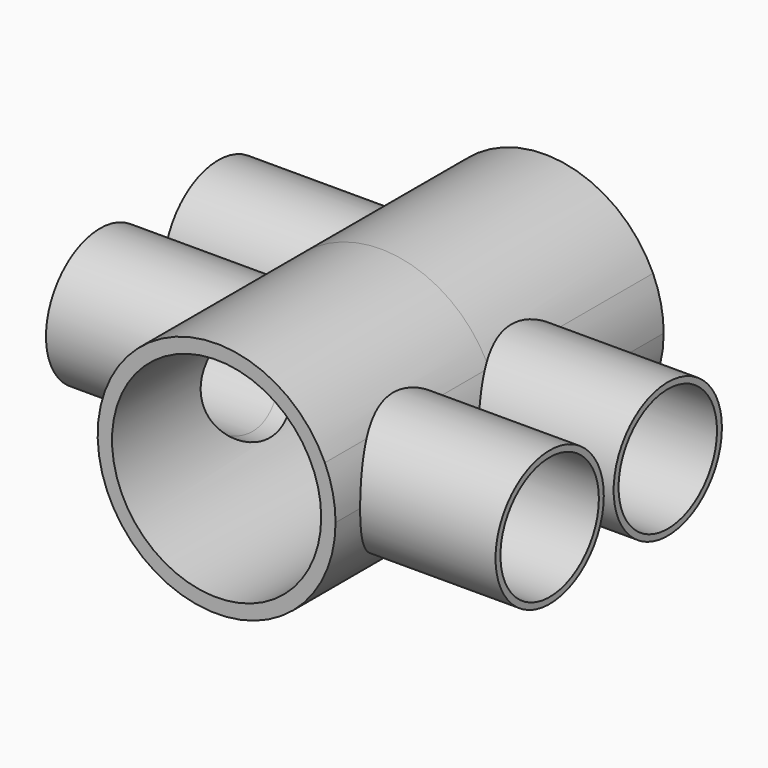
from build123d import *

# Parameters (mm, degrees)
F1_DEPTH = 50
F3_R     = 16.5
F3_R_2   = 15
F5_DEPTH = 50
F7_R     = 16.5
F7_R_2   = 15
F9_DEPTH = 50


with BuildPart() as f1:
    # F0 (on Front) → F1 (new body, symmetric)
    with BuildSketch(Plane.XZ):
        with BuildLine():
            ThreePointArc((-22.5, 12), (0, 25.5), (22.5, 12))
            Line((22.5, 12), (26.4007575649, 12))
            ThreePointArc((26.4007575649, 12), (0, 29), (-26.4007575649, 12))
            Line((-26.4007575649, 12), (-22.5, 12))
        make_face()
        with BuildLine():
            ThreePointArc((22.5, 12), (24.7386337537, 6.1846584384), (25.5, 0))
            ThreePointArc((25.5, 0), (-6.1846584384, -24.7386337537), (-22.5, 12))
            Line((-22.5, 12), (-26.4007575649, 12))
            ThreePointArc((-26.4007575649, 12), (-6.139137994, -28.3427413052), (29, 0))
            ThreePointArc((29, 0), (28.3427413052, 6.139137994), (26.4007575649, 12))
            Line((26.4007575649, 12), (22.5, 12))
        make_face()
    extrude(amount=F1_DEPTH, both=True)

    # F3 (on plane+point) → F4 (join, up to the next surface of F1)
    with BuildSketch(Plane.YZ.offset(62)):
        with Locations((-26, 0)):
            Circle(F3_R)
        with Locations((-26, 0)):
            Circle(F3_R_2, mode=Mode.SUBTRACT)
        with Locations((-26, 0)):
            Circle(F3_R)
        with Locations((-26, 0)):
            Circle(F3_R_2, mode=Mode.SUBTRACT)
        with Locations((10, 0)):
            Circle(F3_R)
        with Locations((10, 0)):
            Circle(F3_R_2, mode=Mode.SUBTRACT)
    extrude(until=Until.NEXT, dir=(-1, 0, 0))

    # F3 (on plane+point) → F5 (cut)
    with BuildSketch(Plane.YZ.offset(62)):
        with Locations((-26, 0)):
            Circle(F3_R_2)
        with Locations((10, 0)):
            Circle(F3_R_2)
    extrude(amount=-F5_DEPTH, mode=Mode.SUBTRACT)

    # F7 (on plane+point) → F8 (join, up to the next surface of F1)
    with BuildSketch(Plane.YZ.offset(-62)):
        with Locations((28, 0)):
            Circle(F7_R)
        with Locations((28, 0)):
            Circle(F7_R_2, mode=Mode.SUBTRACT)
        with Locations((-8, 0)):
            Circle(F7_R)
        with Locations((-8, 0)):
            Circle(F7_R_2, mode=Mode.SUBTRACT)
    extrude(until=Until.NEXT)

    # F7 (on plane+point) → F9 (cut)
    with BuildSketch(Plane.YZ.offset(-62)):
        with Locations((28, 0)):
            Circle(F7_R_2)
        with Locations((-8, 0)):
            Circle(F7_R_2)
    extrude(amount=F9_DEPTH, mode=Mode.SUBTRACT)


solid = f1.part
